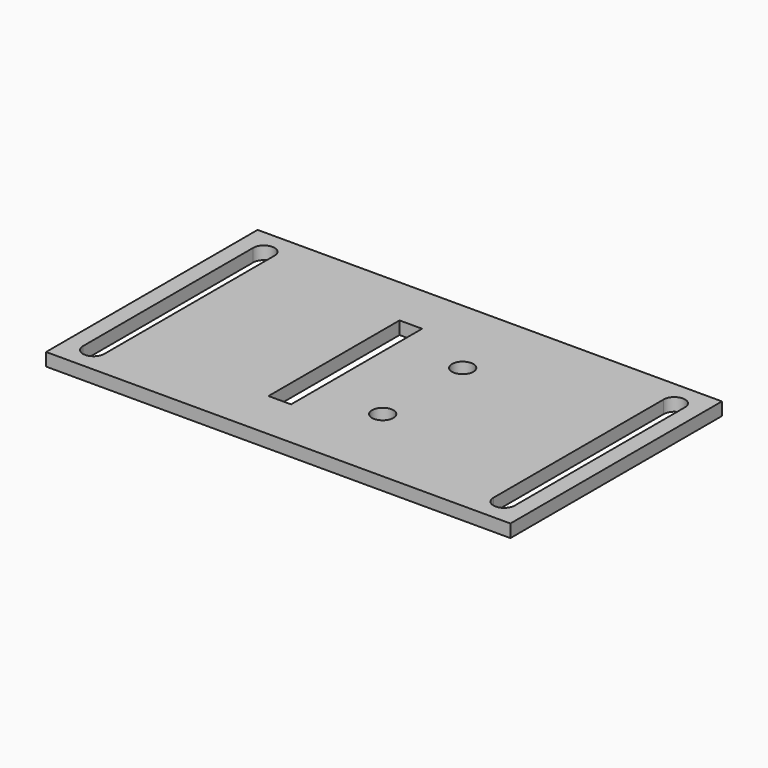
from build123d import *

# Parameters (mm, degrees)
SKETCH_W        = 72
SKETCH_H        = 41
PAD_DEPTH       = 2
POCKET_DEPTH    = 167.759861
SKETCH002_R     = 1.65
SKETCH002_W     = 3.5
SKETCH002_H     = 25.4
POCKET001_DEPTH = 2.001


with BuildPart() as part:
    # Sketch → Pad (new body)
    with BuildSketch(Plane.XY):
        Rectangle(SKETCH_W, SKETCH_H)
    extrude(amount=PAD_DEPTH)

    # Sketch001 (on Face6 of Pad) → Pocket (cut, through all)
    with BuildSketch(Plane.XY.offset(2)):
        with BuildLine():
            ThreePointArc((33.475, 16.5), (31.825, 18.15), (30.175, 16.5))
            Line((30.175, 16.5), (30.175, -16.5))
            ThreePointArc((30.175, -16.5), (31.825, -18.15), (33.475, -16.5))
            Line((33.475, 16.5), (33.475, -16.5))
        make_face()
    pocket = extrude(amount=-POCKET_DEPTH, mode=Mode.SUBTRACT)

    # Mirrored: Pocket across YZ
    add(pocket.mirror(Plane.YZ), mode=Mode.SUBTRACT)

    # Sketch002 (on Face5 of Mirrored) → Pocket001 (cut, through all)
    with BuildSketch(Plane.XY.offset(2)):
        with Locations((6, 7.75)):
            Circle(SKETCH002_R)
        with Locations((6, -7.75)):
            Circle(SKETCH002_R)
        with Locations((-6, 0)):
            Rectangle(SKETCH002_W, SKETCH002_H)
    extrude(amount=-POCKET001_DEPTH, mode=Mode.SUBTRACT)


solid = part.part
